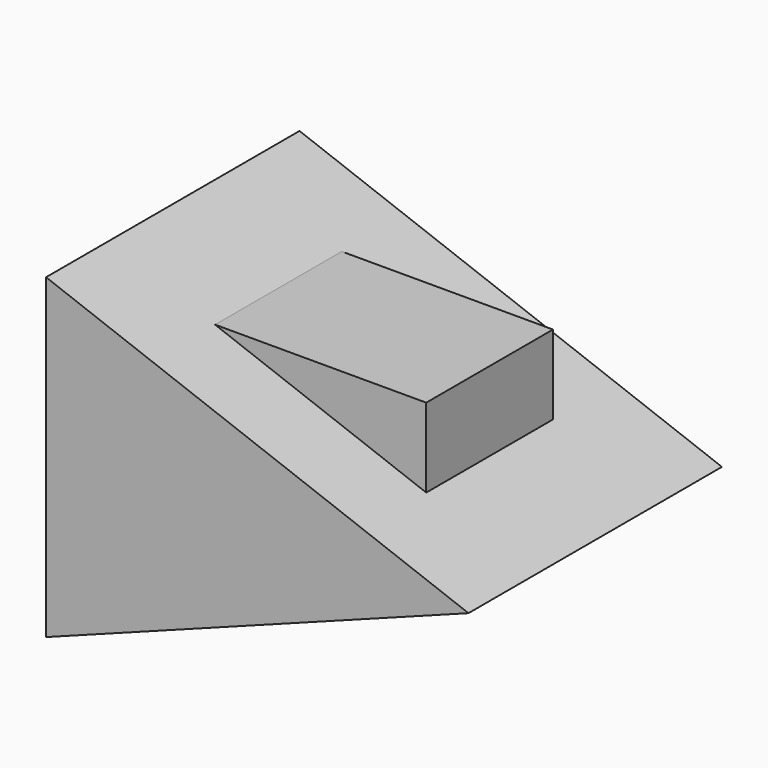
from build123d import *

# Parameters (mm, degrees)
F1_DEPTH = 15
F2_DEPTH = 7.5
F3_DEPTH = 15


with BuildPart() as f1:
    # F0 (on Front) → F1 (new body, symmetric)
    with BuildSketch(Plane.XZ):
        Polygon((40, 15), (0, 0), (40, 0), align=None)
        Polygon((30, 18.75), (10, 26.25), (10, 18.75), align=None)
        Polygon((0, 30), (0, 0), (40, 15), (30, 18.75), (10, 18.75), (10, 26.25), align=None)
    extrude(amount=F1_DEPTH, both=True)

    # F0 (on Front) → F2 (join, symmetric)
    with BuildSketch(Plane.XZ):
        Polygon((30, 26.25), (10, 26.25), (30, 18.75), align=None)
    extrude(amount=F2_DEPTH, both=True)

    # F0 (on Front) → F3 (cut, symmetric)
    with BuildSketch(Plane.XZ):
        Polygon((40, 15), (0, 0), (40, 0), align=None)
    extrude(amount=F3_DEPTH, both=True, mode=Mode.SUBTRACT)


solid = f1.part
